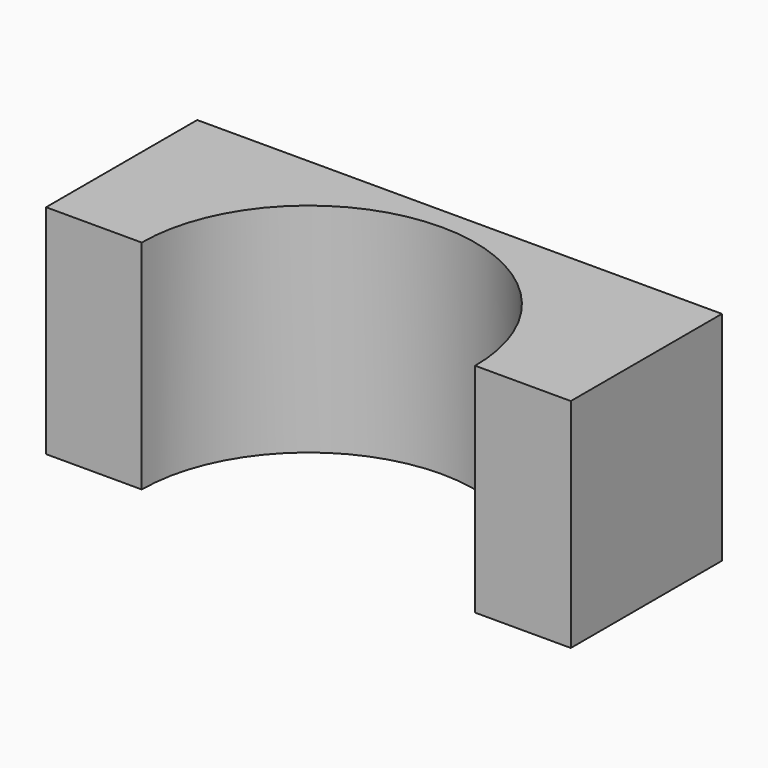
from build123d import *

# Parameters (mm, degrees)
F1_DEPTH = 43.434
F3_DEPTH = 43.435


with BuildPart() as f1:
    # F0 (on Top) → F1 (new body)
    with BuildSketch(Plane.XY):
        Polygon((0, 37.737992), (-52.417379, 37.737992), (-52.417379, 0), (52.417379, 0), (52.417379, 37.737992), align=None)
    extrude(amount=F1_DEPTH)

    # F2 (on face) → F3 (cut, through all)
    with BuildSketch(Plane.XY.offset(43.434)):
        with BuildLine():
            Line((-33.308111, 0), (33.308111, 0))
            ThreePointArc((33.308111, 0), (0, 33.308111), (-33.308111, 0))
        make_face()
    extrude(amount=-F3_DEPTH, mode=Mode.SUBTRACT)


solid = f1.part
